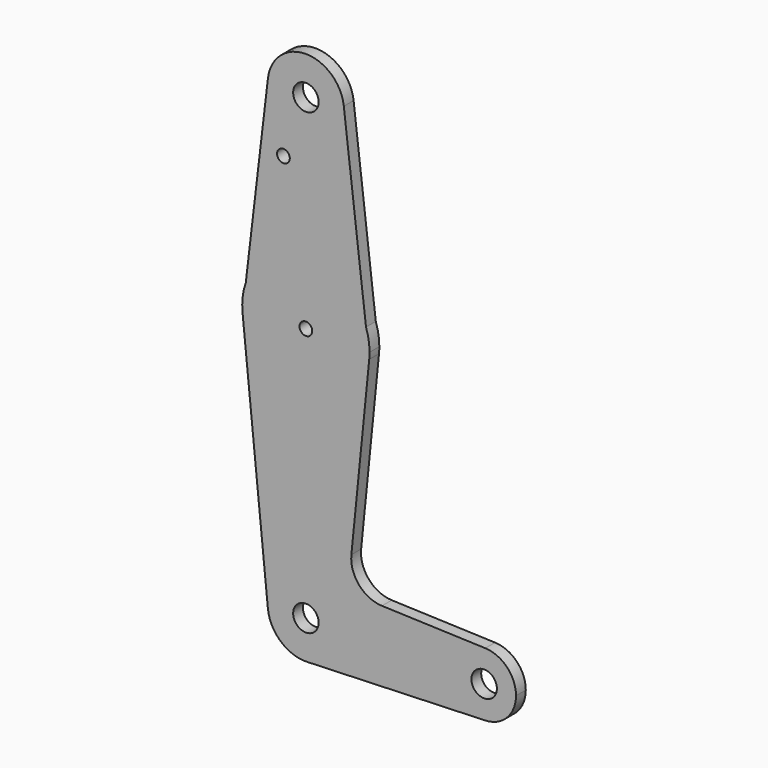
from build123d import *

# Parameters (mm, degrees)
F0_R     = 3.175
F0_R_2   = 1.5875
F1_DEPTH = 3.048


with BuildPart() as f1:
    # F0 (on Front) → F1 (new body)
    with BuildSketch(Plane.XZ):
        with BuildLine():
            ThreePointArc((0.340178632, -9.5189234422), (6.8544083067, -6.6138273159), (9.525, 0))
            ThreePointArc((9.525, 0), (-0.4768479324, 9.5130563464), (-9.4772553384, -0.9525))
            ThreePointArc((-9.4772553384, -0.9525), (-6.2623833588, -7.176919929), (0.340178632, -9.5189234422))
        make_face()
        Circle(F0_R, mode=Mode.SUBTRACT)
        with BuildLine():
            ThreePointArc((-9.4772553384, -0.9525), (-0.4768479324, 9.5130563464), (9.525, 0))
            ThreePointArc((9.525, 0), (6.8544083067, -6.6138273159), (0.340178632, -9.5189234422))
            Line((0.340178632, -9.5189234422), (44.7334821429, -7.9324362036))
            ThreePointArc((44.7334821429, -7.9324362036), (36.5125, 0), (44.7334821429, 7.9324362036))
            Line((44.7334821429, 7.9324362036), (18.9676000005, 8.8532337108))
            ThreePointArc((18.9676000005, 8.8532337108), (13.2611998974, 11.5713591498), (11.3411865923, 17.5933818124))
            Line((11.3411865923, 17.5933818124), (15.7954255641, 61.9125))
            ThreePointArc((15.7954255641, 61.9125), (0, 47.625), (-15.7954255641, 61.9125))
            Line((-15.7954255641, 61.9125), (-9.4772553384, -0.9525))
        make_face()
        with BuildLine():
            Line((-14.9877324754, 68.7329246359), (-15.7954255641, 61.9125))
            ThreePointArc((-15.7954255641, 61.9125), (0, 47.625), (15.7954255641, 61.9125))
            Line((15.7954255641, 61.9125), (14.9877324754, 68.7329246359))
            ThreePointArc((14.9877324754, 68.7329246359), (0, 79.375), (-14.9877324754, 68.7329246359))
        make_face()
        with Locations((0, 63.5)):
            Circle(F0_R_2, mode=Mode.SUBTRACT)
        with BuildLine():
            ThreePointArc((-14.9877324754, 68.7329246359), (-15.764842301, 65.3669151629), (-15.7954255641, 61.9125))
            Line((-15.7954255641, 61.9125), (-14.9877324754, 68.7329246359))
        make_face()
        with BuildLine():
            ThreePointArc((44.7334821429, 7.9324362036), (36.5125, 0), (44.7334821429, -7.9324362036))
            ThreePointArc((44.7334821429, -7.9324362036), (50.1620069047, -5.5115227815), (52.3875, 0))
            ThreePointArc((52.3875, 0), (50.1620069047, 5.5115227815), (44.7334821429, 7.9324362036))
        make_face()
        with Locations((44.45, 0)):
            Circle(F0_R, mode=Mode.SUBTRACT)
        with BuildLine():
            Line((14.9877324754, 68.7329246359), (15.7954255641, 61.9125))
            ThreePointArc((15.7954255641, 61.9125), (15.8550939106, 62.7052534459), (15.875, 63.5))
            ThreePointArc((15.875, 63.5), (15.6516113875, 66.1538059417), (14.9877324754, 68.7329246359))
        make_face()
        with BuildLine():
            Line((-9.4589053806, 115.4201490977), (-14.9877324754, 68.7329246359))
            ThreePointArc((-14.9877324754, 68.7329246359), (0, 79.375), (14.9877324754, 68.7329246359))
            Line((14.9877324754, 68.7329246359), (9.4589053806, 115.4201490977))
            ThreePointArc((9.4589053806, 115.4201490977), (9.5084619879, 114.8610486832), (9.525, 114.3))
            ThreePointArc((9.525, 114.3), (-0.5610486832, 104.7915380121), (-9.4589053806, 115.4201490977))
        make_face()
        with Locations((-5.5985405648, 99.5935808501)):
            Circle(F0_R_2, mode=Mode.SUBTRACT)
        with BuildLine():
            ThreePointArc((9.4589053806, 115.4201490977), (0, 123.825), (-9.4589053806, 115.4201490977))
            ThreePointArc((-9.4589053806, 115.4201490977), (-0.5610486832, 104.7915380121), (9.525, 114.3))
            ThreePointArc((9.525, 114.3), (9.5084619879, 114.8610486832), (9.4589053806, 115.4201490977))
        make_face()
        with Locations((0, 114.3)):
            Circle(F0_R, mode=Mode.SUBTRACT)
    extrude(amount=F1_DEPTH)


solid = f1.part
